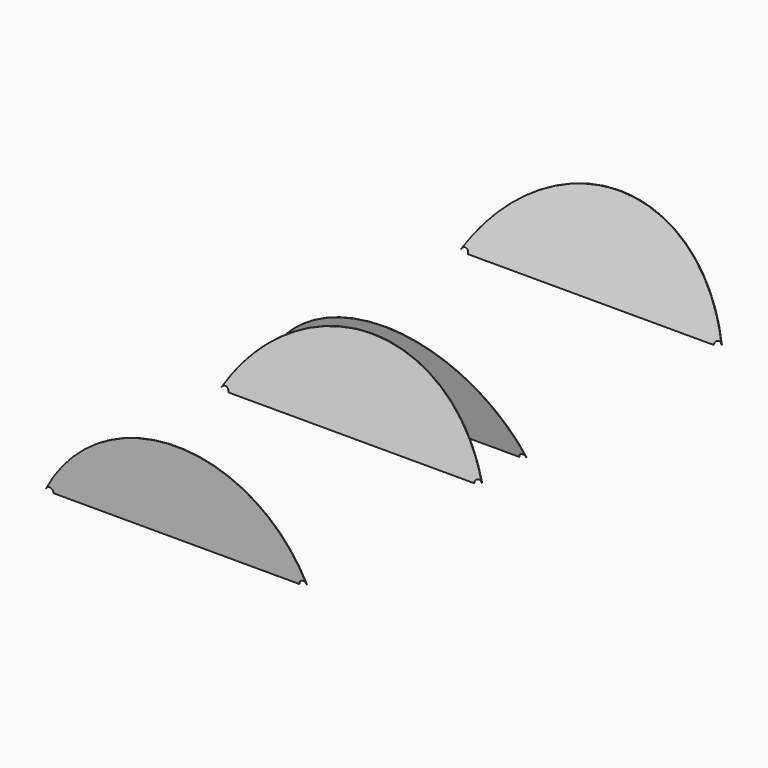
from build123d import *

# Parameters (mm, degrees)
F1_DEPTH = 1555.75
F2_W     = 1.27
F2_H     = 227.33
F3_DEPTH = 381


with BuildPart() as f1:
    # F0 (on Front) → F1 (new body)
    with BuildSketch(Plane.XZ):
        with BuildLine():
            Line((0, 227.33), (0, 0))
            Line((0, 0), (344.4875, 0))
            ThreePointArc((344.4875, 0), (352.9683424936, 10.7963899068), (365.4660439854, 5.1135928982))
            ThreePointArc((365.4660439854, 5.1135928982), (213.8606794689, 167.4155943541), (0, 227.33))
        make_face()
        with BuildLine():
            ThreePointArc((-365.4660439854, 5.1135928982), (-352.9683424936, 10.7963899068), (-344.4875, 0))
            Line((-344.4875, 0), (0, 0))
            Line((0, 0), (0, 227.33))
            ThreePointArc((0, 227.33), (-213.8606794689, 167.4155943541), (-365.4660439854, 5.1135928982))
        make_face()
    extrude(amount=F1_DEPTH)

    # F2 (on Right) → F3 (intersect, symmetric)
    with BuildSketch(Plane.YZ):
        Polygon((-102.991066937, 0), (-101.6, 0), (0, 227.33), (-1.391066937, 227.33), align=None)
        Polygon((-942.975, 0), (-941.6410839266, 0), (-868.6160839266, 227.33), (-869.95, 227.33), align=None)
        Polygon((-783.9298772066, 0), (-782.6375, 0), (-825.5, 227.33), (-826.7923772066, 227.33), align=None)
        with Locations((-1555.115, 113.665)):
            Rectangle(F2_W, F2_H)
    extrude(amount=F3_DEPTH, both=True, mode=Mode.INTERSECT)


solid = f1.part
